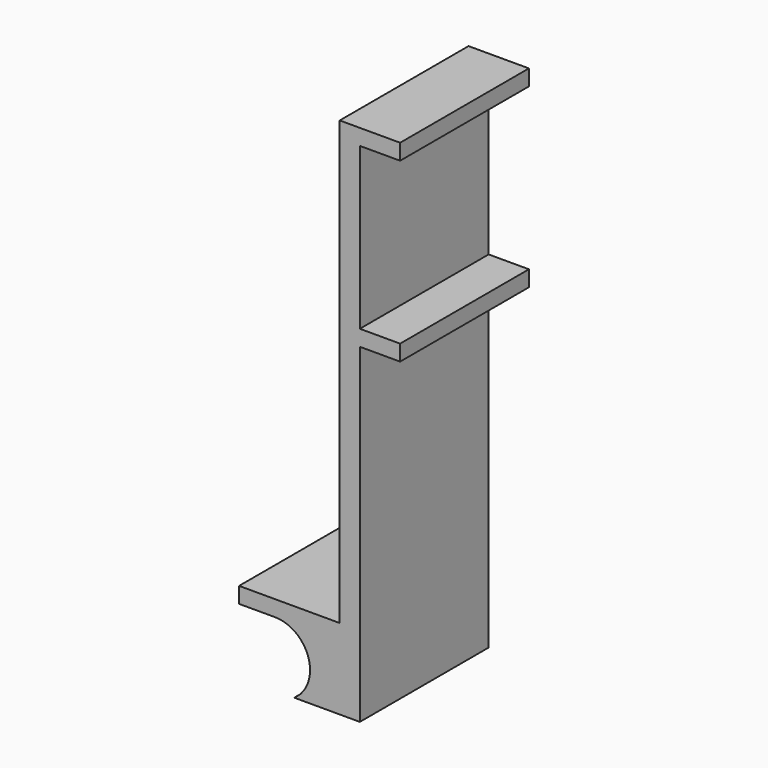
from build123d import *

# Parameters (mm, degrees)
F0_W     = 76.2
F0_H     = 101.6
F1_DEPTH = 50.8
F2_W     = 101.6
F2_H     = 330
F3_DEPTH = 12.7
F4_W     = 101.6
F4_H     = 10
F5_DEPTH = 25.4
F6_W     = 63.5
F6_H     = 88.9
F7_DEPTH = 44.45
F9_DEPTH = 114.808


with BuildPart() as f1:
    # F0 (on Top) → F1 (new body)
    with BuildSketch(Plane.XY):
        Rectangle(F0_W, F0_H)
    extrude(amount=F1_DEPTH)

    # F2 (on face) → F3 (join)
    with BuildSketch(Plane.YZ.offset(38.1)):
        with Locations((0, 165)):
            Rectangle(F2_W, F2_H)
    extrude(amount=-F3_DEPTH)

    # F4 (on face) → F5 (join)
    with BuildSketch(Plane.YZ.offset(38.1)):
        with Locations((0, 325)):
            Rectangle(F4_W, F4_H)
        with Locations((0, 213.4)):
            Rectangle(F4_W, F4_H)
    extrude(amount=F5_DEPTH)

    # F6 (on face) → F7 (cut)
    with BuildSketch(Plane(origin=(0, 0, 0), x_dir=(1, 0, 0), z_dir=(0, 0, -1))):
        Rectangle(F6_W, F6_H)
    extrude(amount=-F7_DEPTH, mode=Mode.SUBTRACT)

    # F8 (on face) → F9 (cut)
    with BuildSketch(Plane.XZ.offset(50.8)):
        with BuildLine():
            ThreePointArc((-27.784303, 0), (-5.013912, -1.01281), (6.673748, 18.555406))
            ThreePointArc((6.673748, 18.555406), (0.164196, 34.270854), (-15.551252, 40.780406))
            ThreePointArc((-15.551252, 40.780406), (-36.839095, 24.9412), (-27.784303, 0))
        make_face()
        with BuildLine():
            ThreePointArc((-27.784303, 0), (-36.839095, 24.9412), (-15.551252, 40.780406))
            Line((-15.551252, 40.780406), (-38.1, 40.780406))
            Line((-38.1, 40.780406), (-38.1, 0))
            Line((-38.1, 0), (-27.784303, 0))
        make_face()
    extrude(amount=-F9_DEPTH, mode=Mode.SUBTRACT)


solid = f1.part
